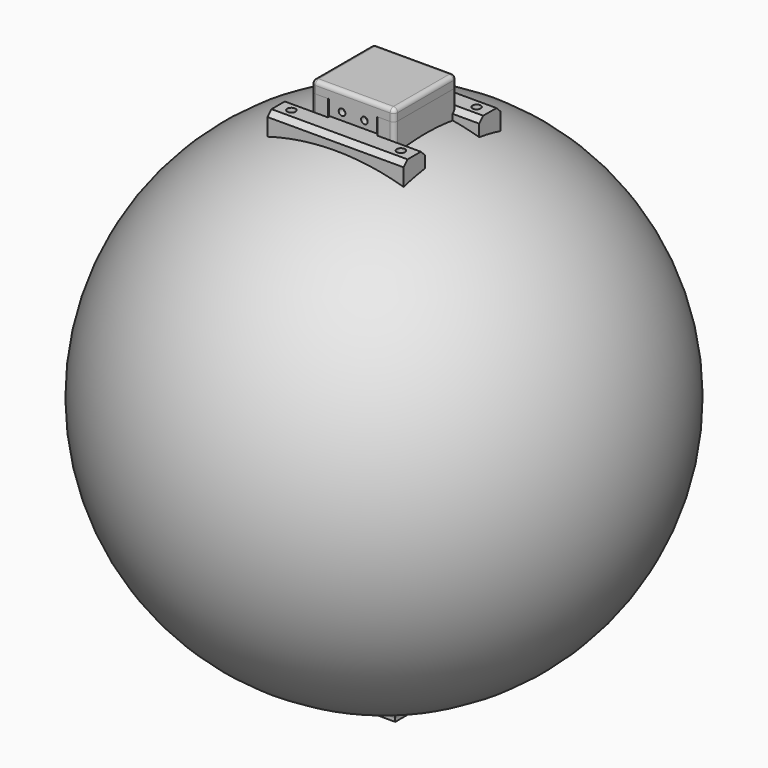
from build123d import *

# Parameters (mm, degrees)
F6_R      = 2.5
F8_SIZE   = 3
F10_DEPTH = 10
F11_W     = 50
F11_H     = 47
F11_W_2   = 43
F11_H_2   = 40
F12_DEPTH = 5
F13_W     = 50
F13_H     = 47
F14_DEPTH = 2
F15_R     = 2.5
F15_2_R   = 2.5
F16_W     = 29
F16_H     = 3.5
F17_DEPTH = 9
F18_R     = 2
F19_DEPTH = 3.5
F21_W     = 25
F21_H     = 14.3
F22_DEPTH = 1
F23_DEPTH = 1.5
F24_W     = 1.5
F24_H     = 6
F25_DEPTH = 10
F26_W     = 25
F26_H     = 14.3
F27_DEPTH = 2
F28_R     = 0.75
F29_DEPTH = 14.5


with BuildPart() as f4:
    # F3 (on Right) → F4 (revolve)
    with BuildSketch(Plane.YZ):
        with BuildLine():
            Line((0, 150), (0, -150))
            ThreePointArc((0, -150), (150, 0), (0, 150))
        make_face()
    revolve(axis=Axis((0, 0, -16.459852457), (0, 0, -1)))


with BuildPart() as f7:
    # F6 (on offset) → F7 (new body, up to the next surface of F4)
    with BuildSketch(Plane.XY.offset(153)):
        Polygon((41, 36.5), (25, 36.5), (-25, 36.5), (-41, 36.5), (-41, 20.5), (-25, 20.5), (-25, -20.5), (-41, -20.5), (-41, -36.5), (-25, -36.5), (25, -36.5), (41, -36.5), (41, -20.5), (25, -20.5), (25, 20.5), (41, 20.5), align=None)
        with Locations((-33, -28.5)):
            Circle(F6_R, mode=Mode.SUBTRACT)
        with Locations((33, -28.5)):
            Circle(F6_R, mode=Mode.SUBTRACT)
        with Locations((-33, 28.5)):
            Circle(F6_R, mode=Mode.SUBTRACT)
        with Locations((33, 28.5)):
            Circle(F6_R, mode=Mode.SUBTRACT)
    extrude(until=Until.NEXT, target=f4.part, dir=(0, 0, -1))

    # F8
    f8_edges = [f7.edges().sort_by_distance(p)[0] for p in [
        (0, 36.5, 153),
        (-33, 36.5, 153),
        (33, 36.5, 153),
        (0, -36.5, 153),
        (-33, -36.5, 153),
        (33, -36.5, 153),
        (-33, 20.5, 153),
        (33, 20.5, 153),
        (33, -20.5, 153),
        (-33, -20.5, 153),
    ]]
    chamfer(f8_edges, length=F8_SIZE)

    # F9 (on face) → F10 (join)
    with BuildSketch(Plane.XY.offset(153)):
        Polygon((25, -23.5), (25, 23.5), (-25, 23.5), (-25, -23.5), (-15, -23.5), (-15, -20), (-21.5, -20), (-21.5, 20), (21.5, 20), (21.5, -20), (15, -20), (15, -23.5), align=None)
    extrude(amount=F10_DEPTH)

    # F15#2
    f15_2_edges = [f7.edges().sort_by_distance(p)[0] for p in [
        (-25, -23.5, 158),
        (-25, 23.5, 158),
        (25, -23.5, 158),
        (25, 23.5, 158),
    ]]
    fillet(f15_2_edges, radius=F15_2_R)


with BuildPart() as f12:
    # F11 (on face) → F12 (new body)
    with BuildSketch(Plane.XY.offset(163)):
        Rectangle(F11_W, F11_H)
        Rectangle(F11_W_2, F11_H_2, mode=Mode.SUBTRACT)
    extrude(amount=F12_DEPTH)

    # F13 (on face) → F14 (join)
    with BuildSketch(Plane.XY.offset(168)):
        Rectangle(F13_W, F13_H)
    extrude(amount=F14_DEPTH)

    # F15
    f15_edges = [f12.edges().sort_by_distance(p)[0] for p in [
        (25, 0, 170),
        (0, 23.5, 170),
        (-25, 0, 170),
        (0, -23.5, 170),
        (-25, -23.5, 166.5),
        (-25, 23.5, 166.5),
        (25, -23.5, 166.5),
        (25, 23.5, 166.5),
    ]]
    fillet(f15_edges, radius=F15_R)

    # F16 (on face) → F17 (join)
    with BuildSketch(Plane(origin=(0, 0, 163), x_dir=(1, 0, 0), z_dir=(0, 0, -1))):
        with Locations((0, 21.75)):
            Rectangle(F16_W, F16_H)
    extrude(amount=F17_DEPTH)

    # F18 (on face) → F19 (cut, through all)
    with BuildSketch(Plane.XZ.offset(23.5)):
        with Locations((-6.5, 158.5)):
            Circle(F18_R)
        with Locations((7, 158.5)):
            Circle(F18_R)
    extrude(amount=-F19_DEPTH, mode=Mode.SUBTRACT)


with BuildPart() as f22:
    # F21 (on offset) → F22 (new body)
    with BuildSketch(Plane.XY.offset(-152)):
        Rectangle(F21_W, F21_H)
        Polygon((-12.5, 7.15), (12.5, 7.15), (12.5, -7.15), (-12.5, -7.15), (-12.5, -8.15), (13.5, -8.15), (13.5, 8.15), (-12.5, 8.15), align=None)
    extrude(amount=F22_DEPTH)

    # F21 (on offset) → F23 (join)
    with BuildSketch(Plane.XY.offset(-152)):
        Rectangle(F21_W, F21_H)
    extrude(amount=-F23_DEPTH)

    # F24 (on face) → F25 (join)
    with BuildSketch(Plane(origin=(0, 0, -153.5), x_dir=(1, 0, 0), z_dir=(0, 0, -1))):
        Polygon((12.5, 3), (12.5, 7.15), (-12.5, 7.15), (-12.5, 3), (-7.5, 3), (-7.5, 5.65), (7.5, 5.65), (7.5, 3), (11, 3), align=None)
        with Locations((11.75, 0)):
            Rectangle(F24_W, F24_H)
        Polygon((12.5, -7.15), (12.5, -3), (11, -3), (7.5, -3), (7.5, -5.65), (-7.5, -5.65), (-7.5, -3), (-12.5, -3), (-12.5, -7.15), align=None)
    extrude(amount=F25_DEPTH)


with BuildPart() as f27:
    # F26 (on face) → F27 (new body)
    with BuildSketch(Plane(origin=(0, 0, -163.5), x_dir=(1, 0, 0), z_dir=(0, 0, -1))):
        Rectangle(F26_W, F26_H)
    extrude(amount=F27_DEPTH)


with BuildPart() as f29_tool:
    # F28 (on face) → F29 (new body, through all)
    with BuildSketch(Plane(origin=(0, 0, -165.5), x_dir=(1, 0, 0), z_dir=(0, 0, -1))):
        with Locations((-10, 4.9)):
            Circle(F28_R)
        with Locations((-10, -4.9)):
            Circle(F28_R)
        with Locations((10, 4.9)):
            Circle(F28_R)
        with Locations((10, -4.9)):
            Circle(F28_R)
    extrude(amount=-F29_DEPTH)


with BuildPart() as f22_1:
    add(f22.part)

    # F29: cut by f29_tool
    add(f29_tool.part, mode=Mode.SUBTRACT)


with BuildPart() as f27_1:
    add(f27.part)

    # F29: cut by f29_tool
    add(f29_tool.part, mode=Mode.SUBTRACT)


solid = Compound([f4.part, f7.part, f12.part, f22_1.part, f27_1.part])
